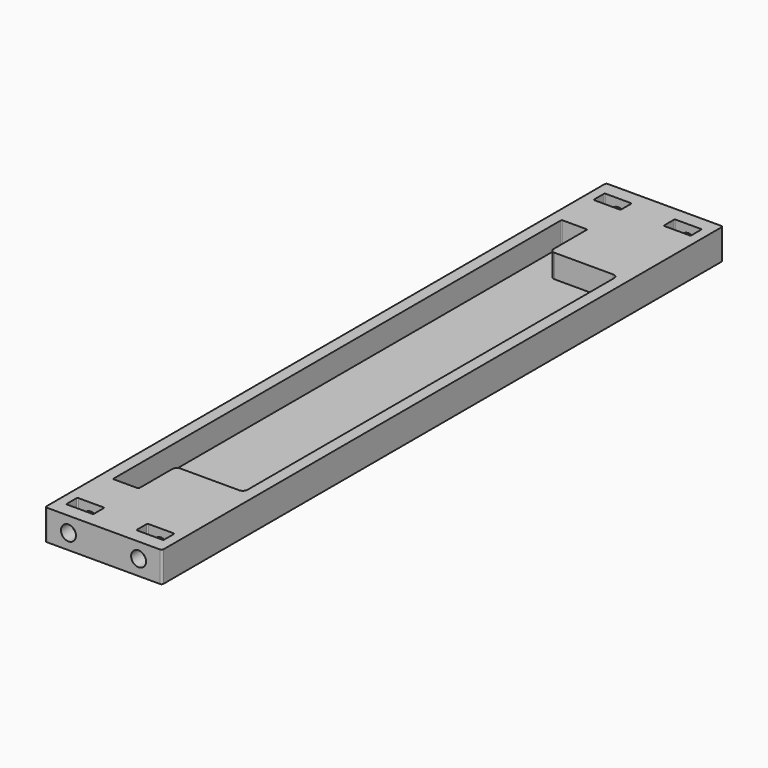
from build123d import *

# Parameters (mm, degrees)
SKETCH_W        = 25
SKETCH_H        = 150
PAD_DEPTH       = 6.5
SKETCH001_R     = 1.6
POCKET_DEPTH    = 10
SKETCH002_R     = 1.6
POCKET001_DEPTH = 10
SKETCH003_W     = 5.8
SKETCH003_H     = 3
POCKET002_DEPTH = 6.5
FILLET_R        = 0.4
FILLET001_R     = 0.2
POCKET003_DEPTH = 5
FILLET002_R     = 1
FILLET003_R     = 0.2


with BuildPart() as part:
    # Sketch → Pad (new body)
    with BuildSketch(Plane.XY):
        Rectangle(SKETCH_W, SKETCH_H)
    extrude(amount=PAD_DEPTH)

    # Sketch001 (on Face3 of Pad) → Pocket (cut)
    with BuildSketch(Plane.XZ.offset(75)):
        with Locations((-7.5, 3.25)):
            Circle(SKETCH001_R)
        with Locations((7.5, 3.25)):
            Circle(SKETCH001_R)
    extrude(amount=-POCKET_DEPTH, mode=Mode.SUBTRACT)

    # Sketch002 (on Face1 of Pocket) → Pocket001 (cut)
    with BuildSketch(Plane(origin=(0, 75, 0), x_dir=(-1, 0, 0), z_dir=(0, 1, 0))):
        with Locations((-7.5, 3.25)):
            Circle(SKETCH002_R)
        with Locations((7.5, 3.25)):
            Circle(SKETCH002_R)
    extrude(amount=-POCKET001_DEPTH, mode=Mode.SUBTRACT)

    # Sketch003 (on Face4 of Pocket001) → Pocket002 (cut)
    with BuildSketch(Plane.XY.offset(6.5)):
        with Locations((-7.5, 70.5)):
            Rectangle(SKETCH003_W, SKETCH003_H)
        with Locations((7.5, 70.5)):
            Rectangle(SKETCH003_W, SKETCH003_H)
        with Locations((-7.5, -70.5)):
            Rectangle(SKETCH003_W, SKETCH003_H)
        with Locations((7.5, -70.5)):
            Rectangle(SKETCH003_W, SKETCH003_H)
    extrude(amount=-POCKET002_DEPTH, mode=Mode.SUBTRACT)

    # Fillet
    fillet_edges = [part.edges().sort_by_distance(p)[0] for p in [
        (-12.5, -75, 3.25),
        (12.5, -75, 3.25),
        (12.5, 75, 3.25),
        (-12.5, 75, 3.25),
    ]]
    fillet(fillet_edges, radius=FILLET_R)

    # Fillet001
    fillet001_edges = [part.edges().sort_by_distance(p)[0] for p in [
        (-10.4, 72, 3.25),
        (4.6, 72, 3.25),
        (-10.4, -69, 3.25),
        (4.6, -69, 3.25),
        (-4.6, -69, 3.25),
        (10.4, -69, 3.25),
        (-4.6, 72, 3.25),
        (10.4, 72, 3.25),
        (10.4, 69, 3.25),
        (-4.6, 69, 3.25),
        (10.4, -72, 3.25),
        (-4.6, -72, 3.25),
        (-10.4, -72, 3.25),
        (4.6, -72, 3.25),
        (-10.4, 69, 3.25),
        (4.6, 69, 3.25),
    ]]
    fillet(fillet001_edges, radius=FILLET001_R)

    # Sketch004 (on Face42 of Fillet001) → Pocket003 (cut)
    with BuildSketch(Plane.XY.offset(6.5)):
        Polygon((-10, -60), (-10, 60), (-4.5, 60), (-4.5, 50), (10, 50), (10, -50), (-4.5, -50), (-4.5, -60), align=None)
    extrude(amount=-POCKET003_DEPTH, mode=Mode.SUBTRACT)

    # Fillet002
    fillet002_edges = [part.edges().sort_by_distance(p)[0] for p in [
        (-4.5, 50, 4),
        (10, 50, 4),
        (-4.5, -50, 4),
        (10, -50, 4),
    ]]
    fillet(fillet002_edges, radius=FILLET002_R)

    # Fillet003
    fillet003_edges = [part.edges().sort_by_distance(p)[0] for p in [
        (-4.5, 60, 4),
        (-10, 60, 4),
        (-4.5, -60, 4),
        (-10, -60, 4),
    ]]
    fillet(fillet003_edges, radius=FILLET003_R)


solid = part.part
